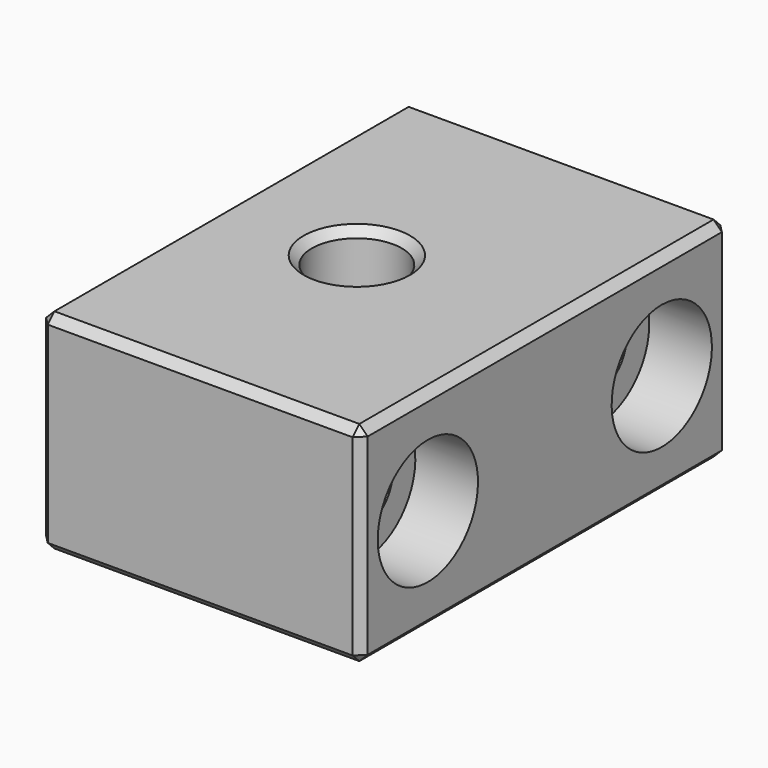
from build123d import *

# Parameters (mm, degrees)
CYLINDER001_R     = 5
CYLINDER001_DEPTH = 2
CYLINDER_R        = 2.15
CYLINDER_DEPTH    = 10
CYLINDER004_R     = 2.1
CYLINDER004_DEPTH = 6
CYLINDER005_R     = 2.1
CYLINDER005_DEPTH = 6
CYLINDER006_R     = 3
CYLINDER006_DEPTH = 3
CYLINDER007_R     = 3
CYLINDER007_DEPTH = 3
CYLINDER002_R     = 1.65
CYLINDER002_DEPTH = 16
CYLINDER003_R     = 1.65
CYLINDER003_DEPTH = 16
BOX_W             = 15.4
BOX_H             = 22
BOX_DEPTH         = 10
CHAMFER_SIZE      = 0.4


with BuildPart() as cylinder001:
    # Cylinder001 → Cylinder001 (new body)
    with BuildSketch(Plane.XY):
        Circle(CYLINDER001_R)
    extrude(amount=CYLINDER001_DEPTH)


with BuildPart() as cylinder:
    # Cylinder → Cylinder (new body)
    with BuildSketch(Plane.XY):
        Circle(CYLINDER_R)
    extrude(amount=CYLINDER_DEPTH)


with BuildPart() as cylinder004:
    # Cylinder004 → Cylinder004 (new body)
    with BuildSketch(Plane(origin=(9, 7, 5), x_dir=(0, 0, 1), z_dir=(-1, 0, 0))):
        Circle(CYLINDER004_R)
    extrude(amount=CYLINDER004_DEPTH)


with BuildPart() as fusion002:
    # Cylinder005 → Cylinder005 (new body)
    with BuildSketch(Plane(origin=(9, -7, 5), x_dir=(0, 0, 1), z_dir=(-1, 0, 0))):
        Circle(CYLINDER005_R)
    extrude(amount=CYLINDER005_DEPTH)

    # Fusion002: union Cylinder004
    add(cylinder004.part)


with BuildPart() as fusion002_1:
    # Fusion002 placement: moved
    add(fusion002.part.moved(Location((-9.4, 0, 0))))


with BuildPart() as cylinder006:
    # Cylinder006 → Cylinder006 (new body)
    with BuildSketch(Plane(origin=(9, 7, 5), x_dir=(0, 0, 1), z_dir=(-1, 0, 0))):
        Circle(CYLINDER006_R)
    extrude(amount=CYLINDER006_DEPTH)


with BuildPart() as fusion001:
    # Cylinder007 → Cylinder007 (new body)
    with BuildSketch(Plane(origin=(9, -7, 5), x_dir=(0, 0, 1), z_dir=(-1, 0, 0))):
        Circle(CYLINDER007_R)
    extrude(amount=CYLINDER007_DEPTH)

    # Fusion001: union Cylinder006
    add(cylinder006.part)


with BuildPart() as cylinder002:
    # Cylinder002 → Cylinder002 (new body)
    with BuildSketch(Plane(origin=(9, -7, 5), x_dir=(0, 0, 1), z_dir=(-1, 0, 0))):
        Circle(CYLINDER002_R)
    extrude(amount=CYLINDER002_DEPTH)


with BuildPart() as fusion:
    # Cylinder003 → Cylinder003 (new body)
    with BuildSketch(Plane(origin=(9, 7, 5), x_dir=(0, 0, 1), z_dir=(-1, 0, 0))):
        Circle(CYLINDER003_R)
    extrude(amount=CYLINDER003_DEPTH)

    # Fusion: union Cylinder002
    add(cylinder002.part)


with BuildPart() as chamfer_body:
    # Box → Box (new body)
    with BuildSketch(Plane(origin=(-6.4, -11, 0), x_dir=(1, 0, 0), z_dir=(0, 0, 1))):
        with Locations((7.7, 11)):
            Rectangle(BOX_W, BOX_H)
    extrude(amount=BOX_DEPTH)

    # Cut: cut Fusion
    add(fusion.part, mode=Mode.SUBTRACT)

    # Cut001: cut Fusion001
    add(fusion001.part, mode=Mode.SUBTRACT)

    # Cut002: cut Fusion002
    add(fusion002_1.part, mode=Mode.SUBTRACT)

    # Cut003: cut Cylinder
    add(cylinder.part, mode=Mode.SUBTRACT)

    # Cut004: cut Cylinder001
    add(cylinder001.part, mode=Mode.SUBTRACT)

    # Chamfer
    chamfer_edges = [chamfer_body.edges().sort_by_distance(p)[0] for p in [
        (-6.4, -11, 5),
        (-6.4, 0, 10),
        (-6.4, 0, 0),
        (-6.4, 11, 5),
        (1.3, -11, 0),
        (9, -11, 5),
        (1.3, -11, 10),
        (1.3, 11, 10),
        (9, 0, 10),
        (-2.15, 0, 10),
        (1.3, 11, 0),
        (9, 0, 0),
        (9, 11, 5),
    ]]
    chamfer(chamfer_edges, length=CHAMFER_SIZE)


solid = chamfer_body.part
